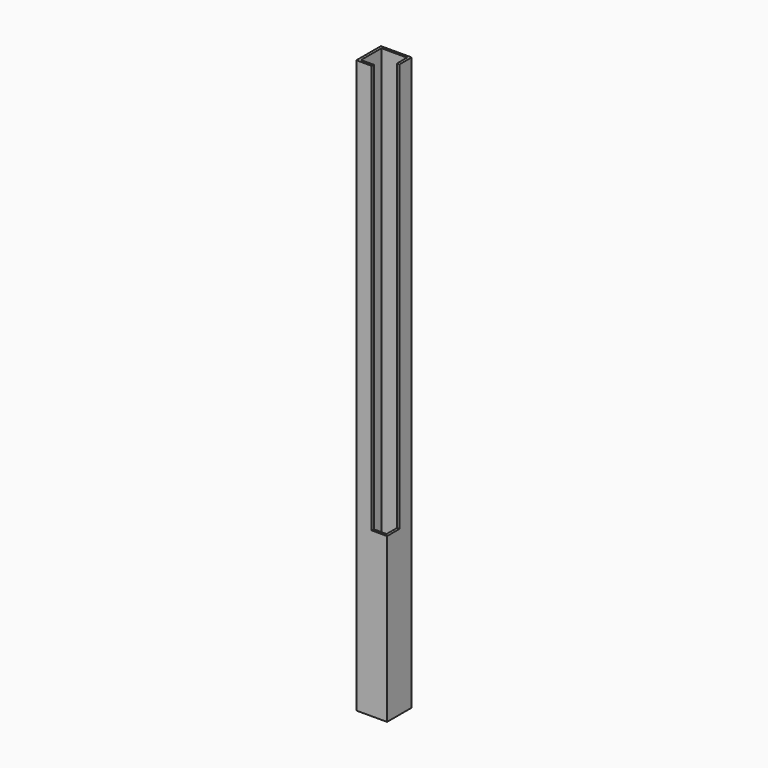
from build123d import *

# Parameters (mm, degrees)
F0_W     = 38.1
F0_H     = 38.1
F1_DEPTH = 711.2
F2_W     = 19.05
F2_H     = 508
F3_DEPTH = 19.05
F4_W     = 31.75
F4_H     = 31.75
F5_DEPTH = 711.201


with BuildPart() as f1:
    # F0 (on Top) → F1 (new body)
    with BuildSketch(Plane.XY):
        with Locations((19.05, 19.05)):
            Rectangle(F0_W, F0_H)
    extrude(amount=F1_DEPTH)

    # F2 (on face) → F3 (cut)
    with BuildSketch(Plane.XZ):
        with Locations((28.575, 457.2)):
            Rectangle(F2_W, F2_H)
    extrude(amount=-F3_DEPTH, mode=Mode.SUBTRACT)

    # F4 (on face) → F5 (cut, through all)
    with BuildSketch(Plane(origin=(0, 0, 0), x_dir=(1, 0, 0), z_dir=(0, 0, -1))):
        with Locations((19.05, -19.05)):
            Rectangle(F4_W, F4_H)
    extrude(amount=-F5_DEPTH, mode=Mode.SUBTRACT)


solid = f1.part
